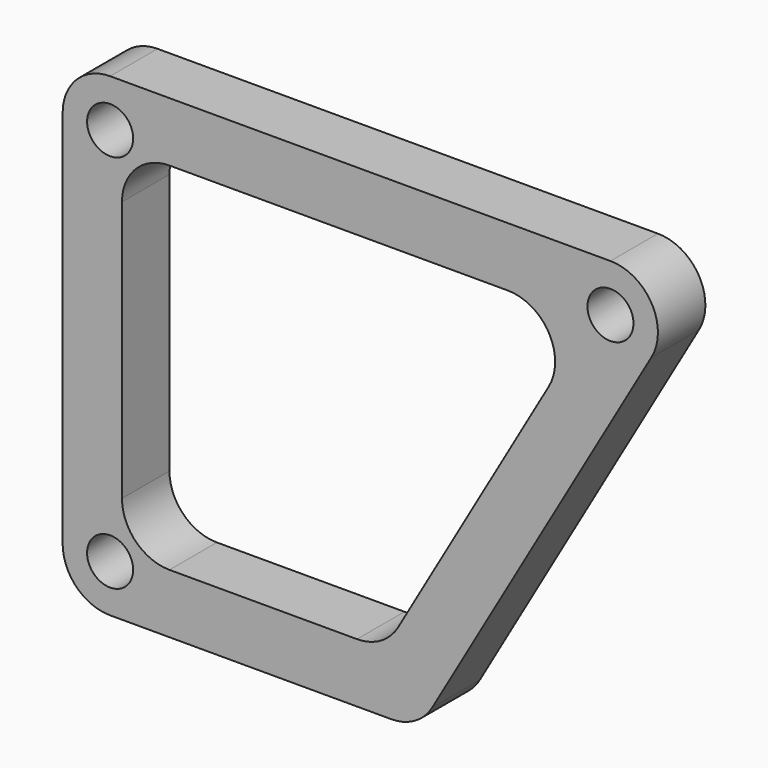
from build123d import *

# Parameters (mm, degrees)
F1_DEPTH = 6.35
F3_DEPTH = 25.4
F4_R     = 5.08
F5_R     = 5.08
F7_D     = 4.9276


with BuildPart() as f1:
    # F0 (on Front) → F1 (new body)
    with BuildSketch(Plane.XZ):
        Polygon((-8.49073, 54.782512), (-75.920123, 54.782512), (-75.920123, 3.982512), (-37.820123, 3.982512), align=None)
    extrude(amount=F1_DEPTH)

    # F2 (on face) → F3 (cut)
    with BuildSketch(Plane.XZ.offset(6.35)):
        Polygon((-41.486298, 10.332512), (-19.489252, 48.432512), (-69.570123, 48.432512), (-69.570123, 10.332512), align=None)
    extrude(amount=-F3_DEPTH, mode=Mode.SUBTRACT)

    # F4
    f4_edges = [f1.edges().sort_by_distance(p)[0] for p in [
        (-8.49073, -3.175, 54.782512),
        (-75.920123, -3.175, 54.782512),
        (-37.820123, -3.175, 3.982512),
        (-75.920123, -3.175, 3.982512),
    ]]
    fillet(f4_edges, radius=F4_R)

    # F5
    f5_edges = [f1.edges().sort_by_distance(p)[0] for p in [
        (-41.486298, -3.175, 10.332512),
        (-69.570123, -3.175, 10.332512),
        (-69.570123, -3.175, 48.432512),
        (-19.489252, -3.175, 48.432512),
    ]]
    fillet(f5_edges, radius=F5_R)

    # F7 (through all)
    with Locations(Plane.XZ.offset(6.35)):
        with Locations((-70.840123, 49.702512), (-70.840123, 9.062512), (-17.289548, 49.702512)):
            Hole(F7_D / 2)


solid = f1.part
